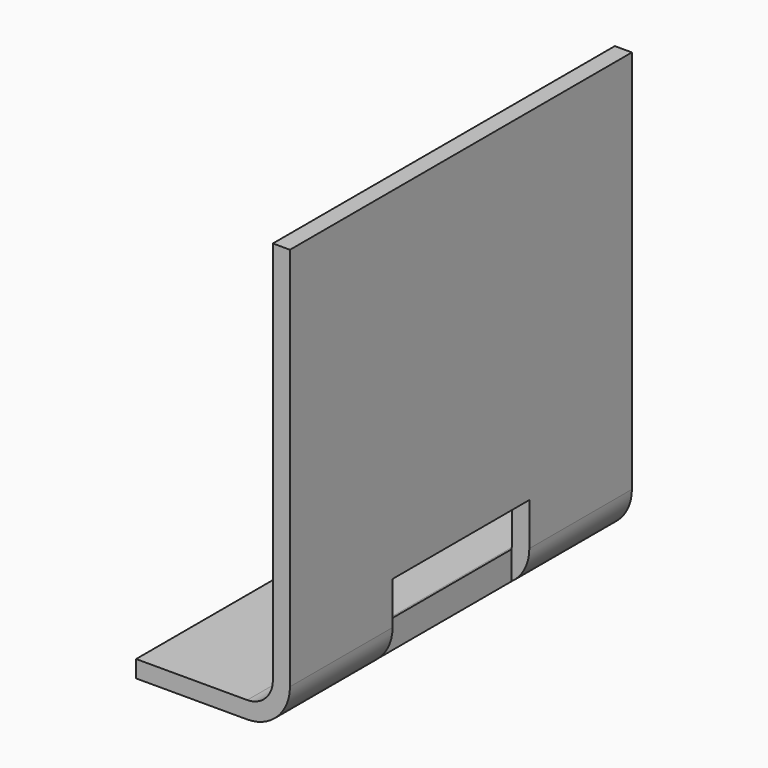
from build123d import *

# Parameters (mm, degrees)
F0_W     = 1.6
F0_H     = 0.2
F1_DEPTH = 2.5
F2_W     = 1
F2_H     = 1
F3_DEPTH = 0.21
F4_R     = 0.3
F5_R     = 0.5


with BuildPart() as f1:
    # F0 (on Front) → F1 (new body, symmetric)
    with BuildSketch(Plane.XZ):
        Polygon((0.1, 2.5), (-0.1, 2.5), (-0.1, -2.3), (-0.1, -2.5), (0.1, -2.5), align=None)
        with Locations((-0.9, -2.4)):
            Rectangle(F0_W, F0_H)
    extrude(amount=F1_DEPTH, both=True)

    # F2 (on face) → F3 (cut)
    with BuildSketch(Plane.YZ.offset(0.1)):
        with Locations((-0.5, -2)):
            Rectangle(F2_W, F2_H)
        with Locations((0.5, -2)):
            Rectangle(F2_W, F2_H)
    extrude(amount=-F3_DEPTH, mode=Mode.SUBTRACT)

    # F4
    f4_edges = [f1.edges().sort_by_distance(p)[0] for p in [
        (-0.1, -1.75, -2.3),
    ]]
    fillet(f4_edges, radius=F4_R)

    # F5
    f5_edges = [f1.edges().sort_by_distance(p)[0] for p in [
        (0.1, -1.75, -2.5),
    ]]
    fillet(f5_edges, radius=F5_R)


solid = f1.part
